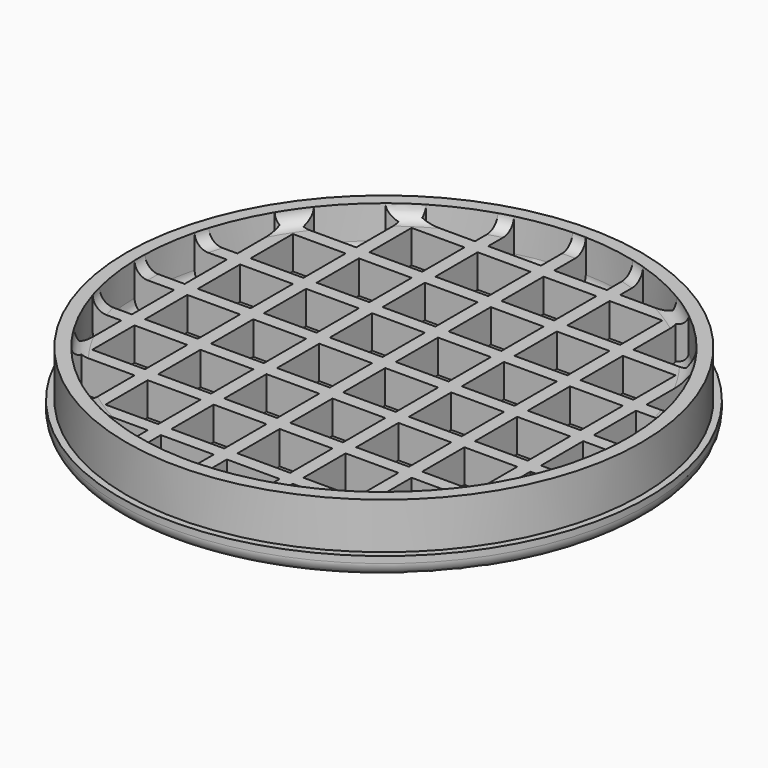
from build123d import *

# Parameters (mm, degrees)
F2_W     = 8
F2_H     = 8
F3_DEPTH = 7
F4_R     = 2


with BuildPart() as f1:
    # F0 (on Front) → F1 (revolve)
    with BuildSketch(Plane.XZ):
        with BuildLine():
            Line((-38, 0), (0, 0))
            Line((0, 0), (0, 3))
            Line((0, 3), (-37, 3))
            Line((-37, 3), (-37, 10))
            Line((-37, 10), (-39, 10))
            Line((-39, 10), (-39, 3))
            Line((-39, 3), (-40, 3))
            Line((-40, 3), (-40, 2))
            ThreePointArc((-40, 2), (-39.4142135624, 0.5857864376), (-38, 0))
        make_face()
    revolve(axis=Axis((0, 0, 1.5), (0, 0, -1)))

    # F2 (on face) → F3 (join, through all)
    with BuildSketch(Plane.XY.offset(3)):
        with BuildLine():
            Line((-1, 36.9864840178), (-1, 31))
            Line((-1, 31), (-9, 31))
            Line((-9, 31), (-9, 35.8887168899))
            ThreePointArc((-9, 35.8887168899), (-10.0039426857, 35.6219192456), (-11, 35.3270434653))
            Line((-11, 35.3270434653), (-11, 31))
            Line((-11, 31), (-19, 31))
            Line((-19, 31), (-19, 31.7490157328))
            ThreePointArc((-19, 31.7490157328), (-21.0340831139, 30.4395687807), (-22.9782505862, 29))
            Line((-22.9782505862, 29), (-21, 29))
            Line((-21, 29), (-21, 21))
            Line((-21, 21), (-29, 21))
            Line((-29, 21), (-29, 22.9782505862))
            ThreePointArc((-29, 22.9782505862), (-30.4395687807, 21.0340831139), (-31.7490157328, 19))
            Line((-31.7490157328, 19), (-31, 19))
            Line((-31, 19), (-31, 11))
            Line((-31, 11), (-35.3270434653, 11))
            ThreePointArc((-35.3270434653, 11), (-35.6219192456, 10.0039426857), (-35.8887168899, 9))
            Line((-35.8887168899, 9), (-31, 9))
            Line((-31, 9), (-31, 1))
            Line((-31, 1), (-36.9864840178, 1))
            ThreePointArc((-36.9864840178, 1), (-37, 0), (-36.9864840178, -1))
            Line((-36.9864840178, -1), (-31, -1))
            Line((-31, -1), (-31, -9))
            Line((-31, -9), (-35.8887168899, -9))
            ThreePointArc((-35.8887168899, -9), (-35.6219192456, -10.0039426857), (-35.3270434653, -11))
            Line((-35.3270434653, -11), (-31, -11))
            Line((-31, -11), (-31, -19))
            Line((-31, -19), (-31.7490157328, -19))
            ThreePointArc((-31.7490157328, -19), (-30.4395687807, -21.0340831139), (-29, -22.9782505862))
            Line((-29, -22.9782505862), (-29, -21))
            Line((-29, -21), (-21, -21))
            Line((-21, -21), (-21, -28.9734538486))
            Line((-21, -28.9734538486), (-23.0458624581, -28.9462989614))
            ThreePointArc((-23.0458624581, -28.9462989614), (-21.0695857289, -30.4150054613), (-19, -31.7490157328))
            Line((-19, -31.7490157328), (-19, -31))
            Line((-19, -31), (-11, -31))
            Line((-11, -31), (-11, -35.3270434653))
            ThreePointArc((-11, -35.3270434653), (-10.0039426857, -35.6219192456), (-9, -35.8887168899))
            Line((-9, -35.8887168899), (-9, -31))
            Line((-9, -31), (-1, -31))
            Line((-1, -31), (-1, -36.9864840178))
            ThreePointArc((-1, -36.9864840178), (0, -37), (1, -36.9864840178))
            Line((1, -36.9864840178), (1, -31))
            Line((1, -31), (9, -31))
            Line((9, -31), (9, -35.8887168899))
            ThreePointArc((9, -35.8887168899), (10.0039426857, -35.6219192456), (11, -35.3270434653))
            Line((11, -35.3270434653), (11, -31))
            Line((11, -31), (19, -31))
            Line((19, -31), (19, -31.7490157328))
            ThreePointArc((19, -31.7490157328), (21.0340831139, -30.4395687807), (22.9782505862, -29))
            Line((22.9782505862, -29), (21, -29))
            Line((21, -29), (21, -21))
            Line((21, -21), (29, -21))
            Line((29, -21), (29, -22.9782505862))
            ThreePointArc((29, -22.9782505862), (30.4395687807, -21.0340831139), (31.7490157328, -19))
            Line((31.7490157328, -19), (31, -19))
            Line((31, -19), (31, -11))
            Line((31, -11), (35.3270434653, -11))
            ThreePointArc((35.3270434653, -11), (35.6219192456, -10.0039426857), (35.8887168899, -9))
            Line((35.8887168899, -9), (31, -9))
            Line((31, -9), (31, -1))
            Line((31, -1), (36.9864840178, -1))
            ThreePointArc((36.9864840178, -1), (36.9966208501, -0.5000456684), (37, 0))
            ThreePointArc((37, 0), (36.9966208501, 0.5000456684), (36.9864840178, 1))
            Line((36.9864840178, 1), (31, 1))
            Line((31, 1), (31, 9))
            Line((31, 9), (35.8887168899, 9))
            ThreePointArc((35.8887168899, 9), (35.6219192456, 10.0039426857), (35.3270434653, 11))
            Line((35.3270434653, 11), (31, 11))
            Line((31, 11), (31, 19))
            Line((31, 19), (31.7490157328, 19))
            ThreePointArc((31.7490157328, 19), (30.4395687807, 21.0340831139), (29, 22.9782505862))
            Line((29, 22.9782505862), (29, 21))
            Line((29, 21), (21, 21))
            Line((21, 21), (21, 29))
            Line((21, 29), (22.9782505862, 29))
            ThreePointArc((22.9782505862, 29), (21.0340831139, 30.4395687807), (19, 31.7490157328))
            Line((19, 31.7490157328), (19, 31))
            Line((19, 31), (11, 31))
            Line((11, 31), (11, 35.3270434653))
            ThreePointArc((11, 35.3270434653), (10.0039426857, 35.6219192456), (9, 35.8887168899))
            Line((9, 35.8887168899), (9, 31))
            Line((9, 31), (1, 31))
            Line((1, 31), (1, 36.9864840178))
            ThreePointArc((1, 36.9864840178), (0, 37), (-1, 36.9864840178))
        make_face()
        with Locations((-15, -25)):
            Rectangle(F2_W, F2_H, mode=Mode.SUBTRACT)
        with Locations((-5, -25)):
            Rectangle(F2_W, F2_H, mode=Mode.SUBTRACT)
        with Locations((-25, -15)):
            Rectangle(F2_W, F2_H, mode=Mode.SUBTRACT)
        with Locations((-25, -5)):
            Rectangle(F2_W, F2_H, mode=Mode.SUBTRACT)
        with Locations((-15, -15)):
            Rectangle(F2_W, F2_H, mode=Mode.SUBTRACT)
        with Locations((-5, -15)):
            Rectangle(F2_W, F2_H, mode=Mode.SUBTRACT)
        with Locations((-15, -5)):
            Rectangle(F2_W, F2_H, mode=Mode.SUBTRACT)
        with Locations((-5, -5)):
            Rectangle(F2_W, F2_H, mode=Mode.SUBTRACT)
        with Locations((5, -25)):
            Rectangle(F2_W, F2_H, mode=Mode.SUBTRACT)
        with Locations((15, -25)):
            Rectangle(F2_W, F2_H, mode=Mode.SUBTRACT)
        with Locations((5, -15)):
            Rectangle(F2_W, F2_H, mode=Mode.SUBTRACT)
        with Locations((15, -15)):
            Rectangle(F2_W, F2_H, mode=Mode.SUBTRACT)
        with Locations((5, -5)):
            Rectangle(F2_W, F2_H, mode=Mode.SUBTRACT)
        with Locations((15, -5)):
            Rectangle(F2_W, F2_H, mode=Mode.SUBTRACT)
        with Locations((25, -15)):
            Rectangle(F2_W, F2_H, mode=Mode.SUBTRACT)
        with Locations((25, -5)):
            Rectangle(F2_W, F2_H, mode=Mode.SUBTRACT)
        with Locations((-25, 5)):
            Rectangle(F2_W, F2_H, mode=Mode.SUBTRACT)
        with Locations((-25, 15)):
            Rectangle(F2_W, F2_H, mode=Mode.SUBTRACT)
        with Locations((-15, 5)):
            Rectangle(F2_W, F2_H, mode=Mode.SUBTRACT)
        with Locations((-5, 5)):
            Rectangle(F2_W, F2_H, mode=Mode.SUBTRACT)
        with Locations((-15, 15)):
            Rectangle(F2_W, F2_H, mode=Mode.SUBTRACT)
        with Locations((-5, 15)):
            Rectangle(F2_W, F2_H, mode=Mode.SUBTRACT)
        with Locations((-15, 25)):
            Rectangle(F2_W, F2_H, mode=Mode.SUBTRACT)
        with Locations((-5, 25)):
            Rectangle(F2_W, F2_H, mode=Mode.SUBTRACT)
        with Locations((5, 5)):
            Rectangle(F2_W, F2_H, mode=Mode.SUBTRACT)
        with Locations((15, 5)):
            Rectangle(F2_W, F2_H, mode=Mode.SUBTRACT)
        with Locations((5, 15)):
            Rectangle(F2_W, F2_H, mode=Mode.SUBTRACT)
        with Locations((15, 15)):
            Rectangle(F2_W, F2_H, mode=Mode.SUBTRACT)
        with Locations((25, 5)):
            Rectangle(F2_W, F2_H, mode=Mode.SUBTRACT)
        with Locations((25, 15)):
            Rectangle(F2_W, F2_H, mode=Mode.SUBTRACT)
        with Locations((5, 25)):
            Rectangle(F2_W, F2_H, mode=Mode.SUBTRACT)
        with Locations((15, 25)):
            Rectangle(F2_W, F2_H, mode=Mode.SUBTRACT)
    extrude(amount=F3_DEPTH)

    # F4
    f4_edges = [f1.edges().sort_by_distance(p)[0] for p in [
        (-26.162951, 26.162951, 3),
        (-15.106309, 33.775722, 3),
        (-33.775722, 15.106309, 3),
        (-36.656496, 5.030037, 3),
        (-36.656496, -5.030037, 3),
        (-33.775722, -15.106309, 3),
        (-26.19346, -26.132406, 3),
        (-15.106309, -33.775722, 3),
        (-5.030037, -36.656496, 3),
        (5.030037, -36.656496, 3),
        (15.106309, -33.775722, 3),
        (26.162951, -26.162951, 3),
        (33.775722, -15.106309, 3),
        (36.656496, -5.030037, 3),
        (36.656496, 5.030037, 3),
        (33.775722, 15.106309, 3),
        (26.162951, 26.162951, 3),
        (15.106309, 33.775722, 3),
        (5.030037, 36.656496, 3),
        (-5.030037, 36.656496, 3),
    ]]
    fillet(f4_edges, radius=F4_R)

    # F5 (on Front) → F6 (revolve, cut)
    with BuildSketch(Plane.XZ):
        with BuildLine():
            Line((-35, 8), (0, 8))
            Line((0, 8), (0, 10))
            Line((0, 10), (-37, 10))
            ThreePointArc((-37, 10), (-36.4142135624, 8.5857864376), (-35, 8))
        make_face()
    revolve(axis=Axis((0, 0, 9), (0, 0, -1)), mode=Mode.SUBTRACT)


solid = f1.part
